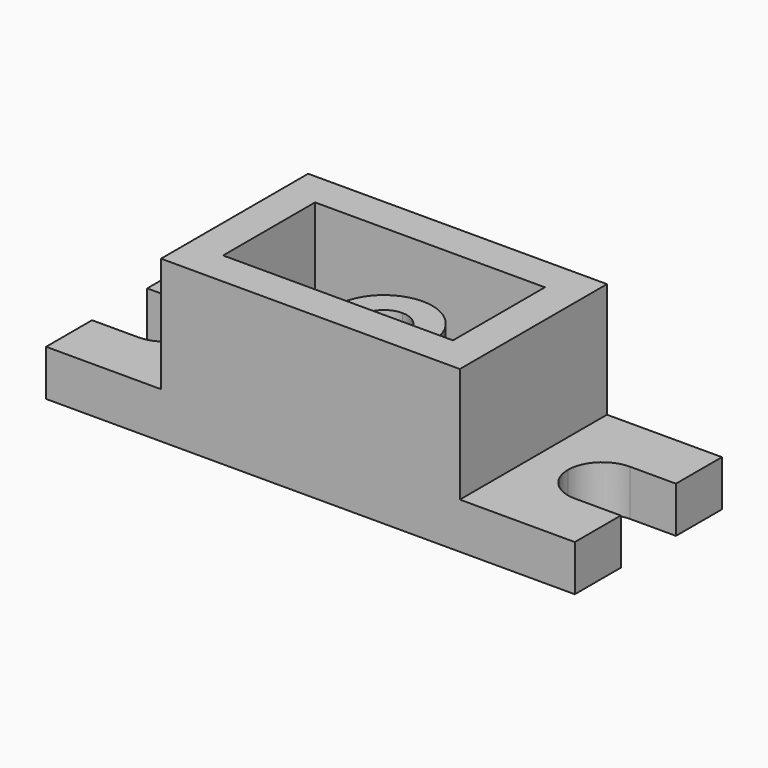
from build123d import *

# Parameters (mm, degrees)
F1_DEPTH = 10.16
F2_DEPTH = 35.56
F3_DEPTH = 15.24
F4_DEPTH = 25.4


with BuildPart() as f1:
    # F0 (on Top) → F1 (new body)
    with BuildSketch(Plane.XY):
        with BuildLine():
            Line((-91.44, -20.32), (-91.44, 0))
            Line((-91.44, 0), (-116.84, 0))
            Line((-116.84, 0), (-116.84, -12.7))
            Line((-116.84, -12.7), (-106.68, -12.7))
            ThreePointArc((-106.68, -12.7), (-101.2918463274, -14.9318463274), (-99.06, -20.32))
            ThreePointArc((-99.06, -20.32), (-101.2918463274, -25.7081536726), (-106.68, -27.94))
            Line((-106.68, -27.94), (-116.84, -27.94))
            Line((-116.84, -27.94), (-116.84, -40.64))
            Line((-116.84, -40.64), (-91.44, -40.64))
            Line((-91.44, -40.64), (-91.44, -20.32))
        make_face()
    extrude(amount=F1_DEPTH)



with BuildPart() as f1b:
    # F0 (on Top) → F1, piece 2 (new body)
    with BuildSketch(Plane.XY):
        with BuildLine():
            Line((0, -12.7), (0, 0))
            Line((0, 0), (-25.4, 0))
            Line((-25.4, 0), (-25.4, -20.32))
            Line((-25.4, -20.32), (-25.4, -40.64))
            Line((-25.4, -40.64), (0, -40.64))
            Line((0, -40.64), (0, -27.94))
            Line((0, -27.94), (-10.16, -27.94))
            ThreePointArc((-10.16, -27.94), (-15.5481536726, -25.7081536726), (-17.78, -20.32))
            ThreePointArc((-17.78, -20.32), (-15.5481536726, -14.9318463274), (-10.16, -12.7))
            Line((-10.16, -12.7), (0, -12.7))
        make_face()
    extrude(amount=F1_DEPTH)


with BuildPart() as f1_1:
    add(f1.part)

    add(f1b.part)  # F2 merges F1b
    # F0 (on Top) → F2 (join)
    with BuildSketch(Plane.XY):
        Polygon((-25.4, -20.32), (-25.4, 0), (-58.42, 0), (-91.44, 0), (-91.44, -20.32), (-91.44, -40.64), (-58.42, -40.64), (-25.4, -40.64), align=None)
        Polygon((-33.02, -7.62), (-33.02, -20.32), (-33.02, -33.02), (-58.42, -33.02), (-83.82, -33.02), (-83.82, -20.32), (-83.82, -7.62), (-58.42, -7.62), align=None, mode=Mode.SUBTRACT)
    extrude(amount=F2_DEPTH)

    # F0 (on Top) → F3 (join)
    with BuildSketch(Plane.XY):
        with BuildLine():
            Line((-58.42, -9.652), (-58.42, -7.62))
            Line((-58.42, -7.62), (-83.82, -7.62))
            Line((-83.82, -7.62), (-83.82, -20.32))
            Line((-83.82, -20.32), (-83.82, -33.02))
            Line((-83.82, -33.02), (-58.42, -33.02))
            Line((-58.42, -33.02), (-58.42, -30.988))
            ThreePointArc((-58.42, -30.988), (-69.088, -20.32), (-58.42, -9.652))
        make_face()
        with BuildLine():
            Line((-33.02, -33.02), (-33.02, -20.32))
            Line((-33.02, -20.32), (-33.02, -7.62))
            Line((-33.02, -7.62), (-58.42, -7.62))
            Line((-58.42, -7.62), (-58.42, -9.652))
            ThreePointArc((-58.42, -9.652), (-50.8765848583, -12.7765848583), (-47.752, -20.32))
            ThreePointArc((-47.752, -20.32), (-50.8765848583, -27.8634151417), (-58.42, -30.988))
            Line((-58.42, -30.988), (-58.42, -33.02))
            Line((-58.42, -33.02), (-33.02, -33.02))
        make_face()
    extrude(amount=F3_DEPTH)

    # F0 (on Top) → F4 (join)
    with BuildSketch(Plane.XY):
        with BuildLine():
            Line((-58.42, -15.24), (-58.42, -9.652))
            ThreePointArc((-58.42, -9.652), (-69.088, -20.32), (-58.42, -30.988))
            Line((-58.42, -30.988), (-58.42, -25.4))
            ThreePointArc((-58.42, -25.4), (-63.5, -20.32), (-58.42, -15.24))
        make_face()
        with BuildLine():
            ThreePointArc((-47.752, -20.32), (-50.8765848583, -12.7765848583), (-58.42, -9.652))
            Line((-58.42, -9.652), (-58.42, -15.24))
            ThreePointArc((-58.42, -15.24), (-54.8278975516, -16.7278975516), (-53.34, -20.32))
            ThreePointArc((-53.34, -20.32), (-54.8278975516, -23.9121024484), (-58.42, -25.4))
            Line((-58.42, -25.4), (-58.42, -30.988))
            ThreePointArc((-58.42, -30.988), (-50.8765848583, -27.8634151417), (-47.752, -20.32))
        make_face()
    extrude(amount=F4_DEPTH)


solid = f1_1.part
